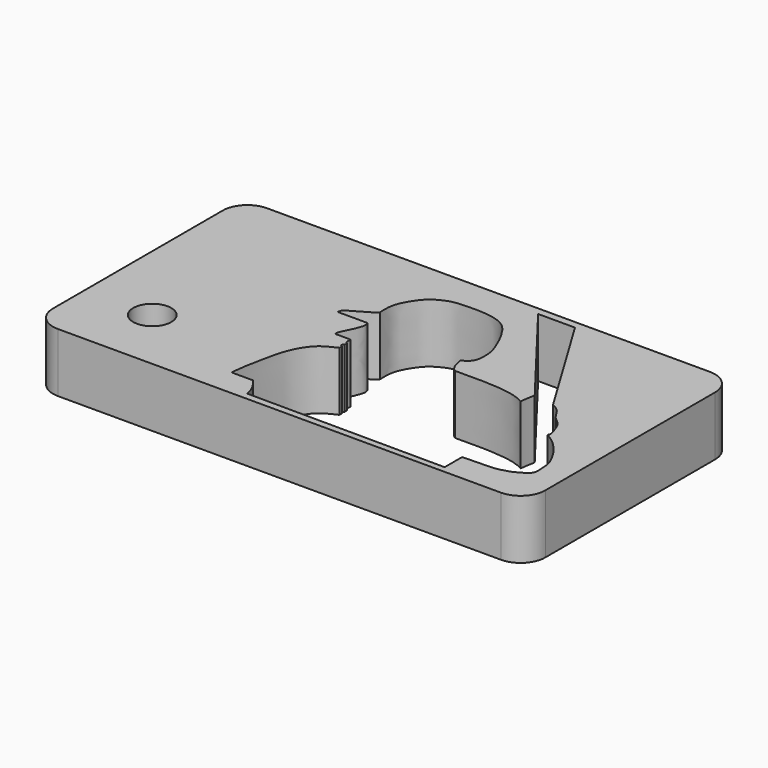
from build123d import *

# Parameters (mm, degrees)
F0_W      = 100
F0_H      = 53.1111111111
F1_DEPTH  = 12
F2_R      = 3.8652490896
F1_FACE_W = 100
F1_FACE_H = 53.1111111111
F3_DEPTH  = 14.9
F4_R      = 5


with BuildPart() as f1:
    # F0 (on Top) → F1 (new body)
    with BuildSketch(Plane.XY):
        with Locations((50, 26.5555555556)):
            Rectangle(F0_W, F0_H)
    extrude(amount=F1_DEPTH)

    # F2 (on Top) + F1_face (on face) → F3 (cut)
    with BuildSketch(Plane.XY):
        with Locations((13.6934826151, 13.1017072126)):
            Circle(F2_R)
        with BuildLine():
            add(Edge.make_bspline(
                [(42.3470549285, 1.4248478692), (42.1699276437, 2.1053774793), (41.7989320344, 3.5307563957), (40.770215634, 4.8633364874), (40.2326472104, 5.559692625)],
                knots=[0, 0, 0, 0, 0.4774376851, 1, 1, 1, 1], degree=3))
            Line((42.3470549285, 1.4248478692), (82.5555995107, 1.254127128))
            add(Edge.make_bspline(
                [(82.5555995107, 5.7062422857), (82.5555995107, 4.2222038998), (82.5555995107, 2.7381655139), (82.5555995107, 1.254127128)],
                knots=[0, 0, 0, 0, 4.4521151576, 4.4521151576, 4.4521151576, 4.4521151576], degree=3))
            add(Edge.make_bspline(
                [(88.3668214083, 20.1305095106), (88.9771011625, 19.7735524531), (90.3391261567, 18.9768941485), (92.6789711612, 16.4746582737), (93.9173813962, 14.2448989272), (94.7252005648, 12.6579700472), (94.8146156036, 10.8065425267), (94.9421282115, 9.3642947316), (94.6614528531, 8.163614538), (92.6649172283, 7.044133809), (91.660873074, 6.5374618129), (89.460191368, 5.8943950474), (87.0358909029, 5.771442581), (84.1779405548, 5.745325899), (83.0417980204, 5.7179552326), (82.5555995107, 5.7062422857)],
                knots=[0, 0, 0, 0, 0.0813196957, 0.1814896485, 0.2683715627, 0.3397014503, 0.4128475957, 0.477610443, 0.5353297003, 0.6145328098, 0.6741486875, 0.7536087515, 0.8404000263, 0.9317011141, 1, 1, 1, 1], degree=3))
            add(Edge.make_bspline(
                [(82.5555995107, 28.7914648652), (83.182660595, 28.4484025678), (84.4722754994, 27.7428600571), (85.4410773845, 25.4628865153), (87.2356089824, 24.3719741884), (87.9710654676, 22.7454291549), (88.6918650029, 20.6679711561), (88.4483975766, 20.2653962224), (88.3668214083, 20.1305095106)],
                knots=[0, 0, 0, 0, 0.1836274585, 0.3776485469, 0.5548108696, 0.7262153448, 0.9082657444, 1, 1, 1, 1], degree=3))
            add(Edge.make_bspline(
                [(68.7539502978, 51.6068264842), (73.3545000354, 44.0017059445), (77.9550497731, 36.3965854049), (82.5555995107, 28.7914648652)],
                knots=[0, 0, 0, 0, 26.6650754134, 26.6650754134, 26.6650754134, 26.6650754134], degree=3))
            Line((68.7539502978, 51.6068264842), (61.2592697144, 51.6068264842))
            add(Edge.make_bspline(
                [(78.3155113459, 29.4290203601), (72.6300974687, 36.8216224015), (66.9446835915, 44.2142244428), (61.2592697144, 51.6068264842)],
                knots=[0, 0, 0, 0, 27.9780353683, 27.9780353683, 27.9780353683, 27.9780353683], degree=3))
            add(Edge.make_bspline(
                [(77.8456404805, 26.4218598604), (77.8907333268, 26.8850750561), (77.9841004563, 27.8441866818), (78.2025597534, 28.8888767092), (78.3155113459, 29.4290203601)],
                knots=[0, 0, 0, 0, 0.4829627577, 1, 1, 1, 1], degree=3))
            add(Edge.make_bspline(
                [(63.1622448564, 28.1133893877), (63.9725447083, 28.1105240606), (65.7281953789, 28.1043158483), (69.1821066819, 28.1566129763), (72.4437431306, 27.9596863121), (75.273165888, 27.5181649937), (76.9046431111, 26.9414212469), (77.5587313095, 26.5802736153), (77.8456404805, 26.4218598604)],
                knots=[0, 0, 0, 0, 0.1714634276, 0.3715043029, 0.5689998482, 0.7509804782, 0.890770106, 1, 1, 1, 1], degree=3))
            add(Edge.make_bspline(
                [(61.6116784513, 31.5434299409), (61.6805154777, 31.1900476681), (61.8188977076, 30.4796476196), (62.0570116608, 29.4288668783), (62.6672643387, 28.4640075547), (63.0157156967, 28.2171829382), (63.1622448564, 28.1133893877)],
                knots=[0, 0, 0, 0, 0.2659689673, 0.5346741525, 0.8043233186, 1, 1, 1, 1], degree=3))
            add(Edge.make_bspline(
                [(41.3133464754, 36.336094141), (41.2762248552, 37.1154188277), (41.2023046768, 38.6672858943), (41.7740420626, 40.8608538357), (43.3075636612, 43.3176070321), (44.7109951991, 44.921601505), (47.6595445922, 46.4757321488), (50.2699326277, 46.5783801879), (52.9807342697, 46.691785723), (56.2416088885, 46.410856902), (58.4690497414, 45.5702079602), (59.9764431122, 44.3293967234), (61.6545122972, 41.6888626572), (62.657560933, 39.3630543075), (63.6222660714, 37.0289963468), (63.706377561, 34.8309162343), (63.6262917918, 33.1807870879), (62.5646243962, 31.8150326707), (61.9007217348, 31.6258112609), (61.6116784513, 31.5434299409)],
                knots=[0, 0, 0, 0, 0.058658398, 0.1168063037, 0.181636678, 0.2386731467, 0.3076490076, 0.3700452237, 0.4338683821, 0.5039302671, 0.5626130731, 0.6159151899, 0.6836393881, 0.7461797318, 0.8071704461, 0.8641119454, 0.9135884278, 0.9623789962, 1, 1, 1, 1], degree=3))
            add(Edge.make_bspline(
                [(35.9803363681, 32.2952233255), (36.0246938616, 32.549296314), (36.1258533147, 33.128722303), (37.2335603183, 33.8362810732), (39.166902715, 34.9328800895), (40.3905933794, 35.5767298714), (41.0161232479, 36.0914992434), (41.3133464754, 36.336094141)],
                knots=[0, 0, 0, 0, 0.1517312249, 0.3460305465, 0.6075265845, 0.813514556, 1, 1, 1, 1], degree=3))
            Line((35.9803363681, 32.2952233255), (42.0651361346, 32.2952233255))
            add(Edge.make_bspline(
                [(40.3971038759, 26.1634364724), (40.3659505903, 26.3291699623), (40.2717291378, 26.8304220731), (41.4845081297, 28.9441125029), (42.115672145, 30.6316681275), (42.3263958766, 31.4836413641), (42.1523910536, 32.0241730759), (42.0651361346, 32.2952233255)],
                knots=[0, 0, 0, 0, 0.1392924234, 0.4212825138, 0.6716639695, 0.8353555192, 1, 1, 1, 1], degree=3))
            Line((40.3971038759, 26.1634364724), (43.5452237725, 26.1634364724))
            add(Edge.make_bspline(
                [(43.8976213336, 24.7773248702), (43.7668285301, 24.8708929156), (43.4444794855, 25.1014986464), (43.5076717226, 25.7676031858), (43.5452237725, 26.1634364724)],
                knots=[0, 0, 0, 0, 0.4057490031, 1, 1, 1, 1], degree=3))
            add(Edge.make_bspline(
                [(43.8976213336, 24.1899881512), (43.8976213336, 24.3857670575), (43.8976213336, 24.5815459639), (43.8976213336, 24.7773248702)],
                knots=[0, 0, 0, 0, 0.587336719, 0.587336719, 0.587336719, 0.587336719], degree=3))
            add(Edge.make_bspline(
                [(43.8976213336, 23.4851855785), (43.7134514079, 23.5813464594), (43.3332973634, 23.7798367812), (43.7056560324, 24.0504675293), (43.8976213336, 24.1899881512)],
                knots=[0, 0, 0, 0, 0.4844613079, 1, 1, 1, 1], degree=3))
            add(Edge.make_bspline(
                [(43.8976213336, 22.8508636355), (43.8976213336, 23.0623042832), (43.8976213336, 23.2737449308), (43.8976213336, 23.4851855785)],
                knots=[0, 0, 0, 0, 0.6343219429, 0.6343219429, 0.6343219429, 0.6343219429], degree=3))
            add(Edge.make_bspline(
                [(35.8158797026, 5.559692625), (35.9241837757, 6.5371872233), (36.1500454821, 8.575694102), (36.8568830745, 11.9850426422), (37.7038005484, 16.224214469), (39.2511212671, 19.3225473566), (40.9928388135, 21.5037592054), (42.9029481872, 22.3895800135), (43.8976213336, 22.8508636355)],
                knots=[0, 0, 0, 0, 0.1576255158, 0.3287186434, 0.5191076539, 0.6882577946, 0.8376629084, 1, 1, 1, 1], degree=3))
            Line((35.8158797026, 5.559692625), (40.2326472104, 5.559692625))
        make_face()
    with BuildSketch(Plane(origin=(50, 26.5555555556, 12), x_dir=(1, 0, 0), z_dir=(0, 0, 1))):
        Rectangle(F1_FACE_W, F1_FACE_H)
        Rectangle(F1_FACE_W, F1_FACE_H)
    extrude(amount=F3_DEPTH, mode=Mode.SUBTRACT)

    # F4
    f4_edges = [f1.edges().sort_by_distance(p)[0] for p in [
        (0, 53.111111, 6),
        (0, 0, 6),
        (100, 53.111111, 6),
        (100, 0, 6),
    ]]
    fillet(f4_edges, radius=F4_R)


solid = f1.part
